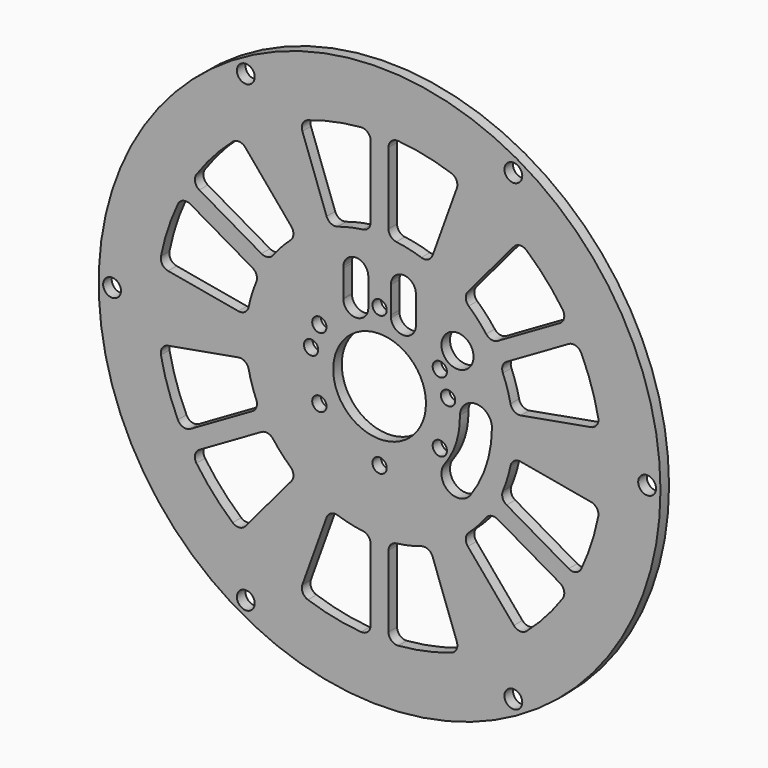
from build123d import *

# Parameters (mm, degrees)
F0_R     = 157.5
F0_R_2   = 5
F0_R_3   = 4
F0_R_4   = 26
F0_R_5   = 9
F1_DEPTH = 6


with BuildPart() as f1:
    # F0 (on Front) → F1 (new body)
    with BuildSketch(Plane.XZ):
        with Locations((55.253603, 171.317172)):
            Circle(F0_R)
        with Locations((-19.746397, 41.413361)):
            Circle(F0_R_2, mode=Mode.SUBTRACT)
        with BuildLine():
            ThreePointArc((25.54928, 97.023741), (28.062939, 99.819901), (31.814266, 100.073944))
            ThreePointArc((31.814266, 100.073944), (38.770124, 98.150957), (45.878603, 96.905416))
            ThreePointArc((45.878603, 96.905416), (49.003603, 95.251822), (50.253603, 91.944633))
            Line((50.253603, 91.944633), (50.253603, 51.734564))
            ThreePointArc((50.253603, 51.734564), (48.638619, 48.054664), (44.836936, 46.751956))
            ThreePointArc((44.836936, 46.751956), (29.751181, 48.946316), (15.044731, 52.960733))
            ThreePointArc((15.044731, 52.960733), (12.147078, 55.527989), (11.950722, 59.394336))
            Line((11.950722, 59.394336), (25.54928, 97.023741))
        make_face(mode=Mode.SUBTRACT)
        with BuildLine():
            ThreePointArc((-23.938557, 159.895154), (-20.260182, 159.116342), (-18.16451, 155.994619))
            ThreePointArc((-18.16451, 155.994619), (-16.351937, 149.009176), (-13.876368, 142.230282))
            ThreePointArc((-13.876368, 142.230282), (-13.745923, 138.697156), (-15.985033, 135.961029))
            Line((-15.985033, 135.961029), (-50.807973, 115.855995))
            ThreePointArc((-50.807973, 115.855995), (-54.802352, 115.414662), (-57.831372, 118.055662))
            ThreePointArc((-57.831372, 118.055662), (-63.473878, 132.217489), (-67.350516, 146.960857))
            ThreePointArc((-67.350516, 146.960857), (-66.576033, 150.753926), (-63.325856, 152.857149))
            Line((-63.325856, 152.857149), (-23.938557, 159.895154))
        make_face(mode=Mode.SUBTRACT)
        with BuildLine():
            ThreePointArc((-10.985033, 127.300775), (-7.495923, 127.871838), (-4.501368, 125.992306))
            ThreePointArc((-4.501368, 125.992306), (0.131542, 120.458954), (5.274826, 115.396497))
            ThreePointArc((5.274826, 115.396497), (6.930482, 112.020731), (5.765766, 108.445759))
            Line((5.765766, 108.445759), (-20.022976, 77.854359))
            ThreePointArc((-20.022976, 77.854359), (-23.469508, 76.091235), (-27.141644, 77.317048))
            ThreePointArc((-27.141644, 77.317048), (-37.971456, 88.045998), (-47.414705, 100.013466))
            ThreePointArc((-47.414705, 100.013466), (-48.187368, 103.957174), (-45.807973, 107.195741))
            Line((-45.807973, 107.195741), (-10.985033, 127.300775))
        make_face(mode=Mode.SUBTRACT)
        with Locations((55.253603, 132.317172)):
            Circle(F0_R_3, mode=Mode.SUBTRACT)
        with Locations((21.478612, 151.817172)):
            Circle(F0_R_3, mode=Mode.SUBTRACT)
        with Locations((130.253603, 41.413361)):
            Circle(F0_R_2, mode=Mode.SUBTRACT)
        with BuildLine():
            ThreePointArc((78.692939, 100.073944), (82.444266, 99.819901), (84.957925, 97.023741))
            Line((84.957925, 97.023741), (98.556484, 59.394336))
            ThreePointArc((98.556484, 59.394336), (98.360128, 55.527989), (95.462475, 52.960733))
            ThreePointArc((95.462475, 52.960733), (80.756025, 48.946316), (65.67027, 46.751956))
            ThreePointArc((65.67027, 46.751956), (61.868587, 48.054664), (60.253603, 51.734564))
            Line((60.253603, 51.734564), (60.253603, 91.944633))
            ThreePointArc((60.253603, 91.944633), (61.503603, 95.251822), (64.628603, 96.905416))
            ThreePointArc((64.628603, 96.905416), (71.737081, 98.150957), (78.692939, 100.073944))
        make_face(mode=Mode.SUBTRACT)
        with BuildLine():
            ThreePointArc((104.74144, 108.445759), (103.576724, 112.020731), (105.23238, 115.396497))
            ThreePointArc((105.23238, 115.396497), (110.375664, 120.458954), (115.008574, 125.992306))
            ThreePointArc((115.008574, 125.992306), (118.003129, 127.871838), (121.492238, 127.300775))
            Line((121.492238, 127.300775), (156.315179, 107.195741))
            ThreePointArc((156.315179, 107.195741), (158.694574, 103.957174), (157.921911, 100.013466))
            ThreePointArc((157.921911, 100.013466), (148.478662, 88.045998), (137.64885, 77.317048))
            ThreePointArc((137.64885, 77.317048), (133.976714, 76.091235), (130.530181, 77.854359))
            Line((130.530181, 77.854359), (104.74144, 108.445759))
        make_face(mode=Mode.SUBTRACT)
        with Locations((89.028594, 151.817172)):
            Circle(F0_R_3, mode=Mode.SUBTRACT)
        with BuildLine():
            ThreePointArc((100.263108, 171.730704), (109.347329, 180.316684), (118.25076, 171.543369))
            ThreePointArc((118.25076, 171.543369), (115.173429, 152.003847), (106.263017, 134.344077))
            ThreePointArc((106.263017, 134.344077), (93.411264, 132.475549), (92.07258, 145.393245))
            ThreePointArc((92.07258, 145.393245), (98.349492, 157.883517), (100.263108, 171.730704))
        make_face(mode=Mode.SUBTRACT)
        with BuildLine():
            ThreePointArc((126.492238, 135.961029), (124.253129, 138.697156), (124.383574, 142.230282))
            ThreePointArc((124.383574, 142.230282), (126.859143, 149.009176), (128.671716, 155.994619))
            ThreePointArc((128.671716, 155.994619), (130.767387, 159.116342), (134.445762, 159.895154))
            Line((134.445762, 159.895154), (173.833062, 152.857149))
            ThreePointArc((173.833062, 152.857149), (177.083239, 150.753926), (177.857722, 146.960857))
            ThreePointArc((177.857722, 146.960857), (173.981084, 132.217489), (168.338578, 118.055662))
            ThreePointArc((168.338578, 118.055662), (165.309558, 115.414662), (161.315179, 115.855995))
            Line((161.315179, 115.855995), (126.492238, 135.961029))
        make_face(mode=Mode.SUBTRACT)
        with Locations((205.253603, 171.317172)):
            Circle(F0_R_2, mode=Mode.SUBTRACT)
        with Locations((-94.746397, 171.317172)):
            Circle(F0_R_2, mode=Mode.SUBTRACT)
        with BuildLine():
            ThreePointArc((-15.985033, 206.673314), (-13.745923, 203.937188), (-13.876368, 200.404061))
            ThreePointArc((-13.876368, 200.404061), (-16.351937, 193.625168), (-18.16451, 186.639725))
            ThreePointArc((-18.16451, 186.639725), (-20.260182, 183.518002), (-23.938557, 182.739189))
            Line((-23.938557, 182.739189), (-63.325856, 189.777195))
            ThreePointArc((-63.325856, 189.777195), (-66.576033, 191.880418), (-67.350516, 195.673487))
            ThreePointArc((-67.350516, 195.673487), (-63.473878, 210.416855), (-57.831372, 224.578682))
            ThreePointArc((-57.831372, 224.578682), (-54.802352, 227.219682), (-50.807973, 226.778349))
            Line((-50.807973, 226.778349), (-15.985033, 206.673314))
        make_face(mode=Mode.SUBTRACT)
        with Locations((16.846101, 178.089451)):
            Circle(F0_R_3, mode=Mode.SUBTRACT)
        with Locations((21.478612, 190.817172)):
            Circle(F0_R_3, mode=Mode.SUBTRACT)
        with BuildLine():
            ThreePointArc((5.765766, 234.188585), (6.930482, 230.613612), (5.274826, 227.237847))
            ThreePointArc((5.274826, 227.237847), (0.131542, 222.17539), (-4.501368, 216.642038))
            ThreePointArc((-4.501368, 216.642038), (-7.495923, 214.762506), (-10.985033, 215.333569))
            Line((-10.985033, 215.333569), (-45.807973, 235.438603))
            ThreePointArc((-45.807973, 235.438603), (-48.187368, 238.67717), (-47.414705, 242.620878))
            ThreePointArc((-47.414705, 242.620878), (-37.971456, 254.588345), (-27.141644, 265.317296))
            ThreePointArc((-27.141644, 265.317296), (-23.469508, 266.543109), (-20.022976, 264.779985))
            Line((-20.022976, 264.779985), (5.765766, 234.188585))
        make_face(mode=Mode.SUBTRACT)
        with BuildLine():
            ThreePointArc((48.9007, 224.11487), (48.916538, 223.644246), (48.9007, 223.173623))
            Line((48.9007, 223.173623), (48.9007, 208.629659))
            ThreePointArc((48.9007, 208.629659), (42.39706, 200.981071), (34.937292, 207.700453))
            ThreePointArc((34.937292, 207.700453), (34.932267, 207.965623), (34.937292, 208.230793))
            Line((34.937292, 208.230793), (34.937292, 223.105625))
            ThreePointArc((34.937292, 223.105625), (34.916538, 223.644246), (34.937292, 224.182868))
            ThreePointArc((34.937292, 224.182868), (41.950626, 230.644163), (48.9007, 224.11487))
        make_face(mode=Mode.SUBTRACT)
        with BuildLine():
            ThreePointArc((50.253603, 250.689711), (49.003603, 247.382522), (45.878603, 245.728927))
            ThreePointArc((45.878603, 245.728927), (38.770124, 244.483386), (31.814266, 242.5604))
            ThreePointArc((31.814266, 242.5604), (28.062939, 242.814442), (25.54928, 245.610602))
            Line((25.54928, 245.610602), (11.950722, 283.240007))
            ThreePointArc((11.950722, 283.240007), (12.147078, 287.106354), (15.044731, 289.673611))
            ThreePointArc((15.044731, 289.673611), (29.751181, 293.688028), (44.836936, 295.882388))
            ThreePointArc((44.836936, 295.882388), (48.638619, 294.57968), (50.253603, 290.899779))
            Line((50.253603, 290.899779), (50.253603, 250.689711))
        make_face(mode=Mode.SUBTRACT)
        with Locations((-19.746397, 301.220982)):
            Circle(F0_R_2, mode=Mode.SUBTRACT)
        with Locations((55.253603, 171.317172)):
            Circle(F0_R_4, mode=Mode.SUBTRACT)
        with Locations((93.661105, 178.089451)):
            Circle(F0_R_3, mode=Mode.SUBTRACT)
        with Locations((89.028594, 190.817172)):
            Circle(F0_R_3, mode=Mode.SUBTRACT)
        with Locations((55.253603, 210.317172)):
            Circle(F0_R_3, mode=Mode.SUBTRACT)
        with Locations((98.940521, 203.057575)):
            Circle(F0_R_5, mode=Mode.SUBTRACT)
        with BuildLine():
            ThreePointArc((61.610832, 207.256323), (61.574938, 207.964758), (61.610746, 208.673198))
            Line((61.610746, 208.673198), (61.609838, 223.643822))
            ThreePointArc((61.609838, 223.643822), (68.394675, 230.640939), (75.596637, 224.073946))
            ThreePointArc((75.596637, 224.073946), (75.609836, 223.649984), (75.597332, 223.226001))
            Line((75.597332, 223.226001), (75.609836, 207.970936))
            ThreePointArc((75.609836, 207.970936), (68.950145, 200.956859), (61.610832, 207.256323))
        make_face(mode=Mode.SUBTRACT)
        with BuildLine():
            ThreePointArc((121.492238, 215.333569), (118.003129, 214.762506), (115.008574, 216.642038))
            ThreePointArc((115.008574, 216.642038), (110.375664, 222.17539), (105.23238, 227.237847))
            ThreePointArc((105.23238, 227.237847), (103.576724, 230.613612), (104.74144, 234.188585))
            Line((104.74144, 234.188585), (130.530181, 264.779985))
            ThreePointArc((130.530181, 264.779985), (133.976714, 266.543109), (137.64885, 265.317296))
            ThreePointArc((137.64885, 265.317296), (148.478662, 254.588345), (157.921911, 242.620878))
            ThreePointArc((157.921911, 242.620878), (158.694574, 238.67717), (156.315179, 235.438603))
            Line((156.315179, 235.438603), (121.492238, 215.333569))
        make_face(mode=Mode.SUBTRACT)
        with BuildLine():
            ThreePointArc((134.445762, 182.739189), (130.767387, 183.518002), (128.671716, 186.639725))
            ThreePointArc((128.671716, 186.639725), (126.859143, 193.625168), (124.383574, 200.404061))
            ThreePointArc((124.383574, 200.404061), (124.253129, 203.937188), (126.492238, 206.673314))
            Line((126.492238, 206.673314), (161.315179, 226.778349))
            ThreePointArc((161.315179, 226.778349), (165.309558, 227.219682), (168.338578, 224.578682))
            ThreePointArc((168.338578, 224.578682), (173.981084, 210.416855), (177.857722, 195.673487))
            ThreePointArc((177.857722, 195.673487), (177.083239, 191.880418), (173.833062, 189.777195))
            Line((173.833062, 189.777195), (134.445762, 182.739189))
        make_face(mode=Mode.SUBTRACT)
        with BuildLine():
            ThreePointArc((84.957925, 245.610602), (82.444266, 242.814442), (78.692939, 242.5604))
            ThreePointArc((78.692939, 242.5604), (71.737081, 244.483386), (64.628603, 245.728927))
            ThreePointArc((64.628603, 245.728927), (61.503603, 247.382522), (60.253603, 250.689711))
            Line((60.253603, 250.689711), (60.253603, 290.899779))
            ThreePointArc((60.253603, 290.899779), (61.868587, 294.57968), (65.67027, 295.882388))
            ThreePointArc((65.67027, 295.882388), (80.756025, 293.688028), (95.462475, 289.673611))
            ThreePointArc((95.462475, 289.673611), (98.360128, 287.106354), (98.556484, 283.240007))
            Line((98.556484, 283.240007), (84.957925, 245.610602))
        make_face(mode=Mode.SUBTRACT)
        with Locations((130.253603, 301.220982)):
            Circle(F0_R_2, mode=Mode.SUBTRACT)
    extrude(amount=F1_DEPTH)


solid = f1.part
